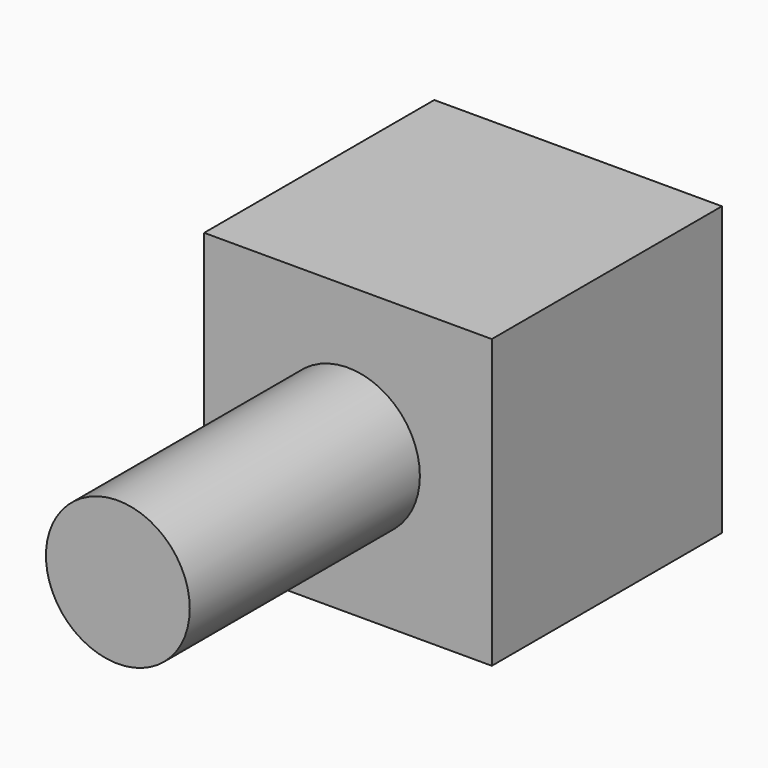
from build123d import *

# Parameters (mm, degrees)
F0_W     = 101.6
F0_H     = 101.6
F1_DEPTH = 101.6
F2_R     = 25.4
F3_DEPTH = 101.6


with BuildPart() as f1:
    # F0 (on Front) → F1 (new body)
    with BuildSketch(Plane.XZ):
        with Locations((-1.220732, 67.275907)):
            Rectangle(F0_W, F0_H)
    extrude(amount=-F1_DEPTH)

    # F2 (on face) → F3 (join)
    with BuildSketch(Plane.XZ):
        with Locations((-1.220732, 67.275907)):
            Circle(F2_R)
    extrude(amount=F3_DEPTH)


solid = f1.part
